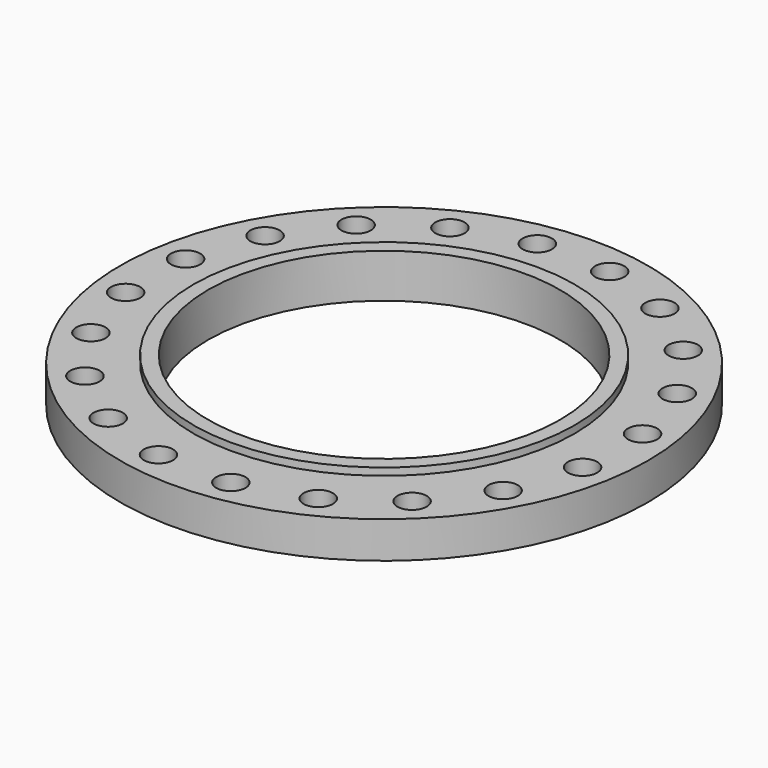
from build123d import *

# Parameters (mm, degrees)
F0_R     = 180
F0_R_2   = 10
F1_DEPTH = 25
F2_R     = 130
F3_DEPTH = 5
F4_R     = 120
F5_DEPTH = 30.001


with BuildPart() as f1:
    # F0 (on Top) → F1 (new body)
    with BuildSketch(Plane.XY):
        Circle(F0_R)
        with Locations((-115.094368, -111.145339)):
            Circle(F0_R_2, mode=Mode.SUBTRACT)
        with Locations((-75.11545, -141.271615)):
            Circle(F0_R_2, mode=Mode.SUBTRACT)
        with Locations((-27.783708, -157.56924)):
            Circle(F0_R_2, mode=Mode.SUBTRACT)
        with Locations((-143.807047, -70.139383)):
            Circle(F0_R_2, mode=Mode.SUBTRACT)
        with Locations((-158.442891, -22.267696)):
            Circle(F0_R_2, mode=Mode.SUBTRACT)
        with Locations((22.267696, -158.442891)):
            Circle(F0_R_2, mode=Mode.SUBTRACT)
        with Locations((70.139383, -143.807047)):
            Circle(F0_R_2, mode=Mode.SUBTRACT)
        with Locations((111.145339, -115.094368)):
            Circle(F0_R_2, mode=Mode.SUBTRACT)
        with Locations((141.271615, -75.11545)):
            Circle(F0_R_2, mode=Mode.SUBTRACT)
        with Locations((157.56924, -27.783708)):
            Circle(F0_R_2, mode=Mode.SUBTRACT)
        with Locations((-157.56924, 27.783708)):
            Circle(F0_R_2, mode=Mode.SUBTRACT)
        with Locations((-141.271615, 75.11545)):
            Circle(F0_R_2, mode=Mode.SUBTRACT)
        with Locations((-111.145339, 115.094368)):
            Circle(F0_R_2, mode=Mode.SUBTRACT)
        with Locations((-70.139383, 143.807047)):
            Circle(F0_R_2, mode=Mode.SUBTRACT)
        with Locations((-22.267696, 158.442891)):
            Circle(F0_R_2, mode=Mode.SUBTRACT)
        with Locations((158.442891, 22.267696)):
            Circle(F0_R_2, mode=Mode.SUBTRACT)
        with Locations((143.807047, 70.139383)):
            Circle(F0_R_2, mode=Mode.SUBTRACT)
        with Locations((27.783708, 157.56924)):
            Circle(F0_R_2, mode=Mode.SUBTRACT)
        with Locations((75.11545, 141.271615)):
            Circle(F0_R_2, mode=Mode.SUBTRACT)
        with Locations((115.094368, 111.145339)):
            Circle(F0_R_2, mode=Mode.SUBTRACT)
    extrude(amount=F1_DEPTH)

    # F2 (on face) → F3 (join)
    with BuildSketch(Plane.XY.offset(25)):
        Circle(F2_R)
        Circle(F2_R)
    extrude(amount=F3_DEPTH)

    # F4 (on face) → F5 (cut, through all)
    with BuildSketch(Plane.XY.offset(30)):
        Circle(F4_R)
        Circle(F4_R)
    extrude(amount=-F5_DEPTH, mode=Mode.SUBTRACT)


solid = f1.part
